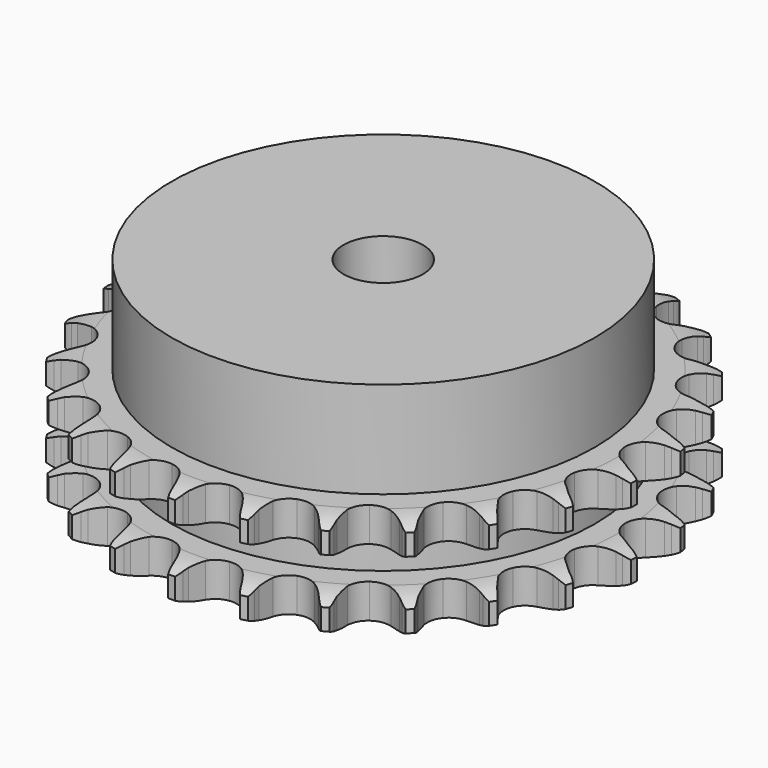
from build123d import *

# Parameters (mm, degrees)
PAD_DEPTH         = 15.4
SKETCH001_R       = 32
PAD001_DEPTH      = 30
SKETCH002_R       = 6
POCKET_DEPTH      = 0.001
POCKET_DEPTH_BACK = 30.001


with BuildPart() as part:
    # Sprocket → Pad (new body)
    with BuildSketch(Plane.XY):
        with BuildLine():
            ThreePointArc((-5.119133, 40.522108), (-4.471486, 39.716317), (-3.996424, 38.798134))
            Line((-3.996424, 38.798134), (-3.687726, 38.020039))
            ThreePointArc((-3.687726, 38.020039), (-3.194709, 36.990111), (-2.565145, 36.037499))
            ThreePointArc((-2.565145, 36.037499), (-1.430666, 35.103968), (0, 34.769725))
            ThreePointArc((0, 34.769725), (1.430666, 35.103968), (2.565145, 36.037499))
            ThreePointArc((2.565145, 36.037499), (3.194709, 36.990111), (3.687726, 38.020039))
            Line((3.687726, 38.020039), (3.996424, 38.798134))
            ThreePointArc((3.996424, 38.798134), (4.471486, 39.716317), (5.119133, 40.522108))
            ThreePointArc((5.119133, 40.522108), (5.54604, 39.58057), (5.777835, 38.573089))
            Line((5.777835, 38.573089), (5.88333, 37.74267))
            ThreePointArc((5.88333, 37.74267), (6.104725, 36.62249), (6.477605, 35.54324))
            ThreePointArc((6.477605, 35.54324), (7.344283, 34.356905), (8.646879, 33.677371))
            ThreePointArc((8.646879, 33.677371), (10.115721, 33.64532), (11.446718, 34.267389))
            Line((11.446718, 34.267389), (13.027069, 35.90847))
            ThreePointArc((13.027069, 35.90847), (13.264791, 36.253115), (13.519572, 36.585349))
            ThreePointArc((13.519572, 36.585349), (14.208053, 37.356543), (15.035744, 37.975955))
            ThreePointArc((15.035744, 37.975955), (15.215089, 36.957829), (15.18905, 35.924355))
            Line((15.18905, 35.924355), (15.084715, 35.09379))
            ThreePointArc((15.084715, 35.09379), (15.020577, 33.953744), (15.113344, 32.815669))
            ThreePointArc((15.113344, 32.815669), (15.657764, 31.45107), (16.750443, 30.468943))
            ThreePointArc((16.750443, 30.468943), (18.165168, 30.072613), (19.609051, 30.344133))
            Line((19.609051, 30.344133), (21.547873, 31.540639))
            ThreePointArc((21.547873, 31.540639), (21.863836, 31.815338), (22.193236, 32.073772))
            ThreePointArc((22.193236, 32.073772), (23.051875, 32.649519), (24.007605, 33.043633))
            ThreePointArc((24.007605, 33.043633), (23.928117, 32.012892), (23.645882, 31.018363))
            Line((23.645882, 31.018363), (23.338271, 30.239838))
            ThreePointArc((23.338271, 30.239838), (22.992631, 29.151559), (22.799455, 28.026169))
            ThreePointArc((22.799455, 28.026169), (22.987409, 26.56905), (23.801515, 25.346039))
            ThreePointArc((23.801515, 25.346039), (25.07323, 24.610333), (26.539276, 24.514244))
            Line((26.539276, 24.514244), (28.714744, 25.190994))
            ThreePointArc((28.714744, 25.190994), (29.089096, 25.378485), (29.472418, 25.546882))
            ThreePointArc((29.472418, 25.546882), (30.447263, 25.891007), (31.470979, 26.035058))
            ThreePointArc((31.470979, 26.035058), (31.137654, 25.056468), (30.616957, 24.163372))
            Line((30.616957, 24.163372), (30.125399, 23.485806))
            ThreePointArc((30.125399, 23.485806), (29.519973, 22.517674), (29.052993, 21.475681))
            ThreePointArc((29.052993, 21.475681), (28.872672, 20.017598), (29.35705, 18.630551))
            ThreePointArc((29.35705, 18.630551), (30.40585, 17.601696), (31.80194, 17.144034))
            Line((31.80194, 17.144034), (34.077363, 17.258506))
            ThreePointArc((34.077363, 17.258506), (34.486582, 17.347009), (34.899739, 17.414787))
            ThreePointArc((34.899739, 17.414787), (35.929538, 17.505666), (36.956916, 17.390605))
            ThreePointArc((36.956916, 17.390605), (36.390697, 16.525653), (35.664255, 15.790108))
            Line((35.664255, 15.790108), (35.019636, 15.256074))
            ThreePointArc((35.019636, 15.256074), (34.192466, 14.468921), (33.481025, 13.575797))
            ThreePointArc((33.481025, 13.575797), (32.943758, 12.208367), (33.067974, 10.744436))
            ThreePointArc((33.067974, 10.744436), (33.827958, 9.487079), (35.066372, 8.696602))
            Line((35.066372, 8.696602), (37.298776, 8.241602))
            ThreePointArc((37.298776, 8.241602), (37.717148, 8.225557), (38.134181, 8.188458))
            ThreePointArc((38.134181, 8.188458), (39.154228, 8.020381), (40.120714, 7.653436))
            ThreePointArc((40.120714, 7.653436), (39.357179, 6.956471), (38.470637, 6.424693))
            Line((38.470637, 6.424693), (37.713461, 6.067747))
            ThreePointArc((37.713461, 6.067747), (36.716522, 5.511033), (35.805321, 4.822897))
            ThreePointArc((35.805321, 4.822897), (34.944866, 3.632039), (34.701115, 2.183209))
            ThreePointArc((34.701115, 2.183209), (35.124531, 0.776354), (36.127454, -0.29727))
            Line((36.127454, -0.29727), (38.17657, -1.293151))
            ThreePointArc((38.17657, -1.293151), (38.577807, -1.412737), (38.972512, -1.552383))
            ThreePointArc((38.972512, -1.552383), (39.918713, -1.968854), (40.76358, -2.564627))
            ThreePointArc((40.76358, -2.564627), (39.850705, -3.049812), (38.859767, -3.344409))
            Line((38.859767, -3.344409), (38.037611, -3.501839))
            ThreePointArc((38.037611, -3.501839), (36.933543, -3.793134), (35.879836, -4.233045))
            ThreePointArc((35.879836, -4.233045), (34.75026, -5.172503), (34.153858, -6.515197))
            ThreePointArc((34.153858, -6.515197), (34.2141, -7.983152), (34.918516, -9.272463))
            Line((34.918516, -9.272463), (36.655589, -10.746651))
            ThreePointArc((36.655589, -10.746651), (37.014481, -10.962264), (37.362057, -11.195681))
            ThreePointArc((37.362057, -11.195681), (38.174959, -11.83438), (38.845121, -12.621545))
            ThreePointArc((38.845121, -12.621545), (37.840265, -12.864464), (36.807195, -12.903369))
            Line((36.807195, -12.903369), (35.971718, -12.851391))
            ThreePointArc((35.971718, -12.851391), (34.829894, -12.858964), (33.69989, -13.023008))
            ThreePointArc((33.69989, -13.023008), (32.372168, -13.652038), (31.460588, -14.804229))
            ThreePointArc((31.460588, -14.804229), (31.153872, -16.241048), (31.515518, -17.665033))
            Line((31.515518, -17.665033), (32.831403, -19.5249))
            ThreePointArc((32.831403, -19.5249), (33.125399, -19.822991), (33.404006, -20.135514))
            ThreePointArc((33.404006, -20.135514), (34.032532, -20.956307), (34.485879, -21.885404))
            ThreePointArc((34.485879, -21.885404), (33.452181, -21.870794), (32.441892, -21.651564))
            Line((32.441892, -21.651564), (31.645589, -21.393443))
            ThreePointArc((31.645589, -21.393443), (30.537754, -21.116818), (29.402455, -20.994688))
            ThreePointArc((29.402455, -20.994688), (27.960013, -21.273765), (26.790534, -22.163057))
            ThreePointArc((26.790534, -22.163057), (26.136132, -23.478458), (26.132285, -24.947645))
            Line((26.132285, -24.947645), (26.944299, -27.076327))
            ThreePointArc((26.944299, -27.076327), (27.154926, -27.438167), (27.347059, -27.810159))
            ThreePointArc((27.347059, -27.810159), (27.751716, -28.761473), (27.959763, -29.774124))
            ThreePointArc((27.959763, -29.774124), (26.962174, -29.502902), (26.038146, -29.03931))
            Line((26.038146, -29.03931), (25.331051, -28.591267))
            ThreePointArc((25.331051, -28.591267), (24.326815, -28.047825), (23.257556, -27.647195))
            ThreePointArc((23.257556, -27.647195), (21.791028, -27.558783), (20.437132, -28.129299))
            ThreePointArc((20.437132, -28.129299), (19.476162, -29.240631), (19.107065, -30.662704))
            Line((19.107065, -30.662704), (19.364185, -32.926449))
            ThreePointArc((19.364185, -32.926449), (19.478209, -33.329303), (19.571796, -33.737388))
            ThreePointArc((19.571796, -33.737388), (19.727157, -34.759449), (19.676832, -35.792025))
            ThreePointArc((19.676832, -35.792025), (18.778034, -35.281234), (17.998326, -34.602411))
            Line((17.998326, -34.602411), (17.424871, -33.992596))
            ThreePointArc((17.424871, -33.992596), (16.587333, -33.216484), (15.6513, -32.562526))
            ThreePointArc((15.6513, -32.562526), (14.252832, -32.112181), (12.79959, -32.328073))
            ThreePointArc((12.79959, -32.328073), (11.592433, -33.165507), (10.881277, -34.451112))
            Line((10.881277, -34.451112), (10.567349, -36.707681))
            ThreePointArc((10.567349, -36.707681), (10.577605, -37.126235), (10.566765, -37.544774))
            ThreePointArc((10.566765, -37.544774), (10.463069, -38.573362), (10.157534, -39.560982))
            ThreePointArc((10.157534, -39.560982), (9.414002, -38.842717), (8.827606, -37.991314))
            Line((8.827606, -37.991314), (8.423822, -37.258045))
            ThreePointArc((8.423822, -37.258045), (7.805608, -36.298029), (7.061614, -35.431835))
            ThreePointArc((7.061614, -35.431835), (5.819078, -34.647853), (4.357802, -34.495556))
            ThreePointArc((4.357802, -34.495556), (2.980309, -35.006473), (1.971778, -36.074831))
            Line((1.971778, -36.074831), (1.106527, -38.182435))
            ThreePointArc((1.106527, -38.182435), (1.012371, -38.590389), (0.897785, -38.993083))
            ThreePointArc((0.897785, -38.993083), (0.541547, -39.963568), (0, -40.844177))
            ThreePointArc((0, -40.844177), (-0.541547, -39.963568), (-0.897785, -38.993083))
            Line((-0.897785, -38.993083), (-1.106527, -38.182435))
            ThreePointArc((-1.106527, -38.182435), (-1.466573, -37.098836), (-1.971778, -36.074831))
            ThreePointArc((-1.971778, -36.074831), (-2.980309, -35.006473), (-4.357802, -34.495556))
            ThreePointArc((-4.357802, -34.495556), (-5.819078, -34.647853), (-7.061614, -35.431835))
            Line((-7.061614, -35.431835), (-8.423822, -37.258045))
            ThreePointArc((-8.423822, -37.258045), (-8.616474, -37.629768), (-8.827606, -37.991314))
            ThreePointArc((-8.827606, -37.991314), (-9.414002, -38.842717), (-10.157534, -39.560982))
            ThreePointArc((-10.157534, -39.560982), (-10.463069, -38.573362), (-10.566765, -37.544774))
            Line((-10.566765, -37.544774), (-10.567349, -36.707681))
            ThreePointArc((-10.567349, -36.707681), (-10.646603, -35.568586), (-10.881277, -34.451112))
            ThreePointArc((-10.881277, -34.451112), (-11.592433, -33.165507), (-12.79959, -32.328073))
            ThreePointArc((-12.79959, -32.328073), (-14.252832, -32.112181), (-15.6513, -32.562526))
            Line((-15.6513, -32.562526), (-17.424871, -33.992596))
            ThreePointArc((-17.424871, -33.992596), (-17.703914, -34.30473), (-17.998326, -34.602411))
            ThreePointArc((-17.998326, -34.602411), (-18.778034, -35.281234), (-19.676832, -35.792025))
            ThreePointArc((-19.676832, -35.792025), (-19.727157, -34.759449), (-19.571796, -33.737388))
            Line((-19.571796, -33.737388), (-19.364185, -32.926449))
            ThreePointArc((-19.364185, -32.926449), (-19.157668, -31.803431), (-19.107065, -30.662704))
            ThreePointArc((-19.107065, -30.662704), (-19.476162, -29.240631), (-20.437132, -28.129299))
            ThreePointArc((-20.437132, -28.129299), (-21.791028, -27.558783), (-23.257556, -27.647195))
            Line((-23.257556, -27.647195), (-25.331051, -28.591267))
            ThreePointArc((-25.331051, -28.591267), (-25.678953, -28.824199), (-26.038146, -29.03931))
            ThreePointArc((-26.038146, -29.03931), (-26.962174, -29.502902), (-27.959763, -29.774124))
            ThreePointArc((-27.959763, -29.774124), (-27.751716, -28.761473), (-27.347059, -27.810159))
            Line((-27.347059, -27.810159), (-26.944299, -27.076327))
            ThreePointArc((-26.944299, -27.076327), (-26.464986, -26.039949), (-26.132285, -24.947645))
            ThreePointArc((-26.132285, -24.947645), (-26.136132, -23.478458), (-26.790534, -22.163057))
            ThreePointArc((-26.790534, -22.163057), (-27.960013, -21.273765), (-29.402455, -20.994688))
            Line((-29.402455, -20.994688), (-31.645589, -21.393443))
            ThreePointArc((-31.645589, -21.393443), (-32.040488, -21.532538), (-32.441892, -21.651564))
            ThreePointArc((-32.441892, -21.651564), (-33.452181, -21.870794), (-34.485879, -21.885404))
            ThreePointArc((-34.485879, -21.885404), (-34.032532, -20.956307), (-33.404006, -20.135514))
            Line((-33.404006, -20.135514), (-32.831403, -19.5249))
            ThreePointArc((-32.831403, -19.5249), (-32.109412, -18.640282), (-31.515518, -17.665033))
            ThreePointArc((-31.515518, -17.665033), (-31.153872, -16.241048), (-31.460588, -14.804229))
            ThreePointArc((-31.460588, -14.804229), (-32.372168, -13.652038), (-33.69989, -13.023008))
            Line((-33.69989, -13.023008), (-35.971718, -12.851391))
            ThreePointArc((-35.971718, -12.851391), (-36.388801, -12.887908), (-36.807195, -12.903369))
            ThreePointArc((-36.807195, -12.903369), (-37.840265, -12.864464), (-38.845121, -12.621545))
            ThreePointArc((-38.845121, -12.621545), (-38.174959, -11.83438), (-37.362057, -11.195681))
            Line((-37.362057, -11.195681), (-36.655589, -10.746651))
            ThreePointArc((-36.655589, -10.746651), (-35.736285, -10.069377), (-34.918516, -9.272463))
            ThreePointArc((-34.918516, -9.272463), (-34.2141, -7.983152), (-34.153858, -6.515197))
            ThreePointArc((-34.153858, -6.515197), (-34.75026, -5.172503), (-35.879836, -4.233045))
            Line((-35.879836, -4.233045), (-38.037611, -3.501839))
            ThreePointArc((-38.037611, -3.501839), (-38.450673, -3.433484), (-38.859767, -3.344409))
            ThreePointArc((-38.859767, -3.344409), (-39.850705, -3.049812), (-40.76358, -2.564627))
            ThreePointArc((-40.76358, -2.564627), (-39.918713, -1.968854), (-38.972512, -1.552383))
            Line((-38.972512, -1.552383), (-38.17657, -1.293151))
            ThreePointArc((-38.17657, -1.293151), (-37.117716, -0.865777), (-36.127454, -0.29727))
            ThreePointArc((-36.127454, -0.29727), (-35.124531, 0.776354), (-34.701115, 2.183209))
            ThreePointArc((-34.701115, 2.183209), (-34.944866, 3.632039), (-35.805321, 4.822897))
            Line((-35.805321, 4.822897), (-37.713461, 6.067747))
            ThreePointArc((-37.713461, 6.067747), (-38.096547, 6.236679), (-38.470637, 6.424693))
            ThreePointArc((-38.470637, 6.424693), (-39.357179, 6.956471), (-40.120714, 7.653436))
            ThreePointArc((-40.120714, 7.653436), (-39.154228, 8.020381), (-38.134181, 8.188458))
            Line((-38.134181, 8.188458), (-37.298776, 8.241602))
            ThreePointArc((-37.298776, 8.241602), (-36.166905, 8.392224), (-35.066372, 8.696602))
            ThreePointArc((-35.066372, 8.696602), (-33.827958, 9.487079), (-33.067974, 10.744436))
            ThreePointArc((-33.067974, 10.744436), (-32.943758, 12.208367), (-33.481025, 13.575797))
            Line((-33.481025, 13.575797), (-35.019636, 15.256074))
            ThreePointArc((-35.019636, 15.256074), (-35.348675, 15.514968), (-35.664255, 15.790108))
            ThreePointArc((-35.664255, 15.790108), (-36.390697, 16.525653), (-36.956916, 17.390605))
            ThreePointArc((-36.956916, 17.390605), (-35.929538, 17.505666), (-34.899739, 17.414787))
            Line((-34.899739, 17.414787), (-34.077363, 17.258506))
            ThreePointArc((-34.077363, 17.258506), (-32.943594, 17.122911), (-31.80194, 17.144034))
            ThreePointArc((-31.80194, 17.144034), (-30.40585, 17.601696), (-29.35705, 18.630551))
            ThreePointArc((-29.35705, 18.630551), (-28.872672, 20.017598), (-29.052993, 21.475681))
            Line((-29.052993, 21.475681), (-30.125399, 23.485806))
            ThreePointArc((-30.125399, 23.485806), (-30.379716, 23.818395), (-30.616957, 24.163372))
            ThreePointArc((-30.616957, 24.163372), (-31.137654, 25.056468), (-31.470979, 26.035058))
            ThreePointArc((-31.470979, 26.035058), (-30.447263, 25.891007), (-29.472418, 25.546882))
            Line((-29.472418, 25.546882), (-28.714744, 25.190994))
            ThreePointArc((-28.714744, 25.190994), (-27.650316, 24.777701), (-26.539276, 24.514244))
            ThreePointArc((-26.539276, 24.514244), (-25.07323, 24.610333), (-23.801515, 25.346039))
            ThreePointArc((-23.801515, 25.346039), (-22.987409, 26.56905), (-22.799455, 28.026169))
            Line((-22.799455, 28.026169), (-23.338271, 30.239838))
            ThreePointArc((-23.338271, 30.239838), (-23.501887, 30.625224), (-23.645882, 31.018363))
            ThreePointArc((-23.645882, 31.018363), (-23.928117, 32.012892), (-24.007605, 33.043633))
            ThreePointArc((-24.007605, 33.043633), (-23.051875, 32.649519), (-22.193236, 32.073772))
            Line((-22.193236, 32.073772), (-21.547873, 31.540639))
            ThreePointArc((-21.547873, 31.540639), (-20.619666, 30.875618), (-19.609051, 30.344133))
            ThreePointArc((-19.609051, 30.344133), (-18.165168, 30.072613), (-16.750443, 30.468943))
            ThreePointArc((-16.750443, 30.468943), (-15.657764, 31.45107), (-15.113344, 32.815669))
            Line((-15.113344, 32.815669), (-15.084715, 35.09379))
            ThreePointArc((-15.084715, 35.09379), (-15.147349, 35.507758), (-15.18905, 35.924355))
            ThreePointArc((-15.18905, 35.924355), (-15.215089, 36.957829), (-15.035744, 37.975955))
            ThreePointArc((-15.035744, 37.975955), (-14.208053, 37.356543), (-13.519572, 36.585349))
            Line((-13.519572, 36.585349), (-13.027069, 35.90847))
            ThreePointArc((-13.027069, 35.90847), (-12.293408, 35.033506), (-11.446718, 34.267389))
            ThreePointArc((-11.446718, 34.267389), (-10.115721, 33.64532), (-8.646879, 33.677371))
            ThreePointArc((-8.646879, 33.677371), (-7.344283, 34.356905), (-6.477605, 35.54324))
            Line((-6.477605, 35.54324), (-5.88333, 37.74267))
            ThreePointArc((-5.88333, 37.74267), (-5.841047, 38.159209), (-5.777835, 38.573089))
            ThreePointArc((-5.777835, 38.573089), (-5.54604, 39.58057), (-5.119133, 40.522108))
        make_face()
    extrude(amount=PAD_DEPTH)

    # Sketch → Groove (revolve, cut)
    with BuildSketch(Plane.XZ):
        with BuildLine():
            ThreePointArc((35.641101, 0), (37.877169, 0.253206), (40, 1))
            Line((40, 1), (40, 4.2))
            ThreePointArc((40, 4.2), (37.877169, 4.946794), (35.641101, 5.2))
            Line((32, 5.2), (35.641101, 5.2))
            Line((32, 10.2), (32, 5.2))
            Line((35.641101, 10.2), (32, 10.2))
            ThreePointArc((35.641101, 10.2), (37.877169, 10.453206), (40, 11.2))
            Line((40, 11.2), (40, 14.4))
            ThreePointArc((40, 14.4), (37.877169, 15.146794), (35.641101, 15.4))
            Line((35.641101, 15.4), (45.641101, 15.4))
            Line((45.641101, 15.4), (45.641101, 0))
            Line((35.641101, 0), (45.641101, 0))
        make_face()
    revolve(axis=Axis((0, 0, 0), (0, 0, 1)), mode=Mode.SUBTRACT)

    # Sketch001 → Pad001 (join)
    with BuildSketch(Plane.XY):
        Circle(SKETCH001_R)
    extrude(amount=PAD001_DEPTH)

    # Sketch002 → Pocket (cut, two sides)
    with BuildSketch(Plane.XY) as pocket_sk:
        Circle(SKETCH002_R)
    extrude(amount=-POCKET_DEPTH, mode=Mode.SUBTRACT)
    extrude(pocket_sk.sketch, amount=POCKET_DEPTH_BACK, mode=Mode.SUBTRACT)


solid = part.part
